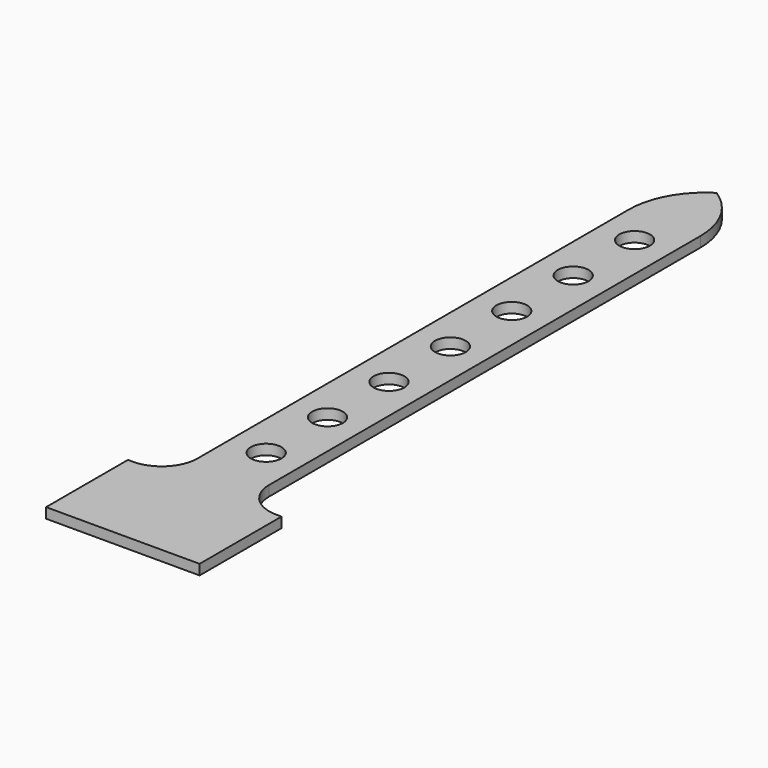
from build123d import *

# Parameters (mm, degrees)
PAD_DEPTH   = 2
SKETCH001_R = 3
HOLE_DEPTH  = 25


with BuildPart() as part:
    # Sketch → Pad (new body)
    with BuildSketch(Plane.XY):
        with BuildLine():
            Line((0, 0), (15, 0))
            Line((15, 0), (15, 20))
            Line((14, 20), (15, 20))
            ThreePointArc((7, 26.999996), (9.050254, 22.050251), (14, 20))
            Line((7, 28.739996), (7, 26.999996))
            Line((7, 132.311423), (7, 28.739996))
            ThreePointArc((7, 132.311422), (5.133926, 139.557111), (0, 145))
            Line((0, 145), (0, 0))
        make_face()
    pad = extrude(amount=PAD_DEPTH)

    # Mirrored: Pad across Sketch V_Axis
    add(pad.mirror(Plane(origin=(0, 0, 0), x_dir=(0, 0, 1), z_dir=(1, 0, 0))))

    # Sketch001 (on Face5 of Mirrored) → Hole (cut)
    with BuildSketch(Plane.XY.offset(2)):
        with Locations((0, 35)):
            Circle(SKETCH001_R)
        with Locations((0, 50)):
            Circle(SKETCH001_R)
        with Locations((0, 65)):
            Circle(SKETCH001_R)
        with Locations((0, 80)):
            Circle(SKETCH001_R)
        with Locations((0, 95)):
            Circle(SKETCH001_R)
        with Locations((0, 110)):
            Circle(SKETCH001_R)
        with Locations((0, 125)):
            Circle(SKETCH001_R)
    extrude(amount=-HOLE_DEPTH, mode=Mode.SUBTRACT)


solid = part.part
